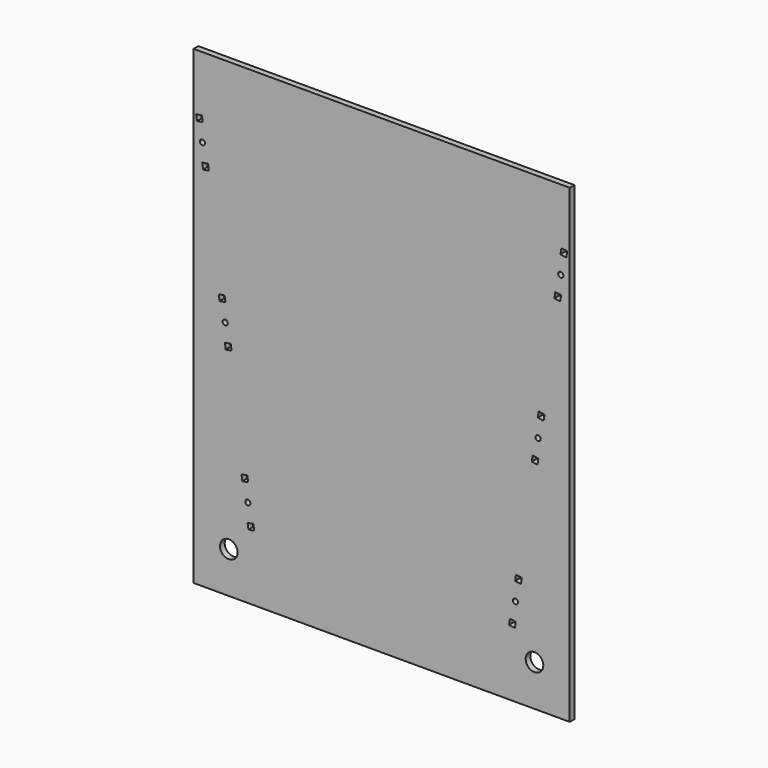
from build123d import *

# Parameters (mm, degrees)
F0_R     = 4.7625
F0_R_2   = 1.397
F1_DEPTH = 3.175


with BuildPart() as f1:
    # F0 (on Front) → F1 (new body)
    with BuildSketch(Plane.XZ):
        Polygon((0.193495, 252.694308), (-101.406505, 252.694308), (-101.406505, 231.290841), (-101.406505, -1.305692), (0.193495, -1.305692), align=None)
        with Locations((-82.356505, 20.919308)):
            Circle(F0_R, mode=Mode.SUBTRACT)
        Polygon((-68.62529, 34.152875), (-71.765163, 33.681894), (-72.236144, 36.821767), (-75.06203, 55.661004), (-75.533011, 58.800877), (-72.393138, 59.271858), (-71.922157, 56.131985), (-69.096271, 37.292748), align=None, mode=Mode.SUBTRACT)
        Polygon((-84.481649, 118.458463), (-85.894592, 127.878082), (-87.307534, 137.2977), (-87.778515, 140.437573), (-84.638642, 140.908554), (-84.167661, 137.768681), (-81.341776, 118.929444), (-80.870795, 115.789571), (-84.010668, 115.31859), align=None, mode=Mode.SUBTRACT)
        Polygon((-100.02402, 222.074269), (-96.884147, 222.54525), (-96.413166, 219.405377), (-93.58728, 200.56614), (-93.116299, 197.426267), (-96.256172, 196.955286), (-96.727153, 200.095159), (-99.553039, 218.934396), align=None, mode=Mode.SUBTRACT)
        Polygon((101.793495, 252.694308), (0.193495, 252.694308), (0.193495, -1.305692), (101.793495, -1.305692), (101.793495, 231.290841), align=None)
        with Locations((82.743495, 20.919308)):
            Circle(F0_R, mode=Mode.SUBTRACT)
        Polygon((75.92, 58.800877), (75.449019, 55.661004), (72.623134, 36.821767), (72.152153, 33.681894), (69.01228, 34.152875), (69.483261, 37.292748), (72.309146, 56.131985), (72.780127, 59.271858), align=None, mode=Mode.SUBTRACT)
        Polygon((84.554651, 137.768681), (85.025632, 140.908554), (88.165504, 140.437573), (87.694524, 137.2977), (86.281581, 127.878082), (84.868638, 118.458463), (84.397657, 115.31859), (81.257784, 115.789571), (81.728765, 118.929444), align=None, mode=Mode.SUBTRACT)
        Polygon((99.940028, 218.934396), (97.114142, 200.095159), (96.643161, 196.955286), (93.503288, 197.426267), (93.974269, 200.56614), (96.800155, 219.405377), (97.271136, 222.54525), (100.411009, 222.074269), align=None, mode=Mode.SUBTRACT)
        Polygon((-87.307534, 137.2977), (-85.894592, 127.878082), (-84.481649, 118.458463), (-81.341776, 118.929444), (-84.167661, 137.768681), align=None)
        with Locations((-84.324655, 128.113572)):
            Circle(F0_R_2, mode=Mode.SUBTRACT)
        Polygon((-93.58728, 200.56614), (-96.413166, 219.405377), (-99.553039, 218.934396), (-96.727153, 200.095159), align=None)
        with Locations((-96.570159, 209.750268)):
            Circle(F0_R_2, mode=Mode.SUBTRACT)
        Polygon((-75.06203, 55.661004), (-72.236144, 36.821767), (-69.096271, 37.292748), (-71.922157, 56.131985), align=None)
        with Locations((-72.079151, 46.476876)):
            Circle(F0_R_2, mode=Mode.SUBTRACT)
        Polygon((72.623134, 36.821767), (75.449019, 55.661004), (72.309146, 56.131985), (69.483261, 37.292748), align=None)
        with Locations((72.46614, 46.476876)):
            Circle(F0_R_2, mode=Mode.SUBTRACT)
        Polygon((87.694524, 137.2977), (84.554651, 137.768681), (81.728765, 118.929444), (84.868638, 118.458463), (86.281581, 127.878082), align=None)
        with Locations((84.711644, 128.113572)):
            Circle(F0_R_2, mode=Mode.SUBTRACT)
        Polygon((93.974269, 200.56614), (97.114142, 200.095159), (99.940028, 218.934396), (96.800155, 219.405377), align=None)
        with Locations((96.957149, 209.750268)):
            Circle(F0_R_2, mode=Mode.SUBTRACT)
    extrude(amount=F1_DEPTH)


solid = f1.part
